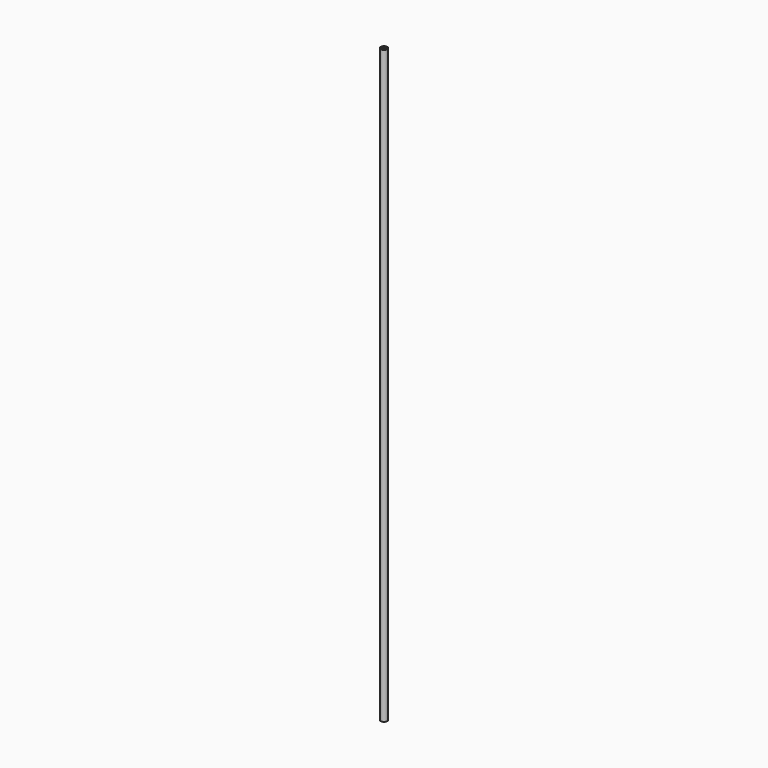
from build123d import *

# Parameters (mm, degrees)
SKETCH_R   = 2.5
SKETCH_R_2 = 1.5
PAD_DEPTH  = 450


with BuildPart() as part:
    # Sketch → Pad (new body)
    with BuildSketch(Plane.XY):
        Circle(SKETCH_R)
        Circle(SKETCH_R_2, mode=Mode.SUBTRACT)
    extrude(amount=PAD_DEPTH)


solid = part.part
